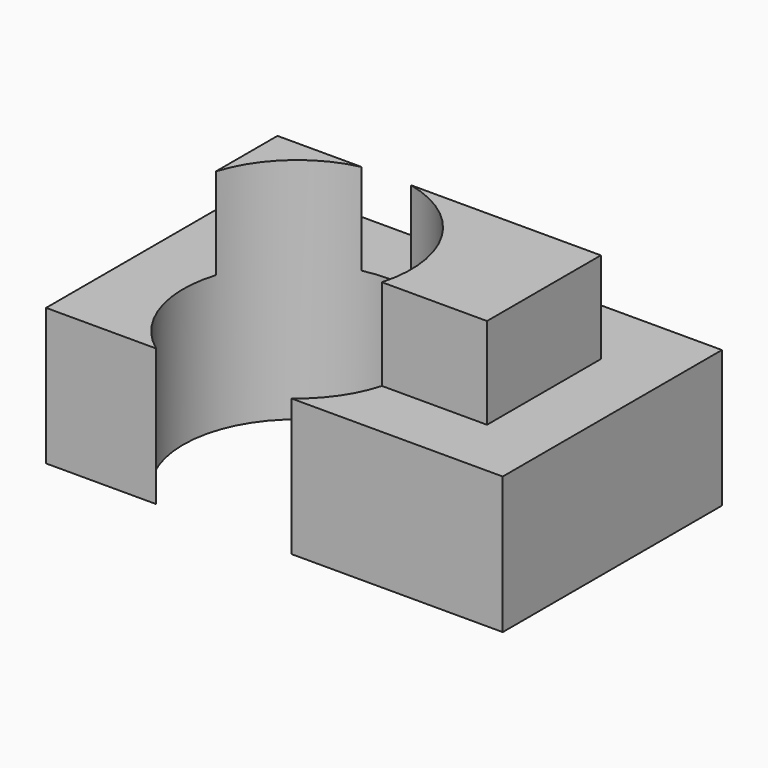
from build123d import *

# Parameters (mm, degrees)
F0_W     = 50
F0_H     = 30
F1_DEPTH = 15
F2_W     = 35.409173
F2_H     = 15.580036
F3_DEPTH = 10
F4_R     = 12.476899
F5_DEPTH = 25


with BuildPart() as f1:
    # F0 (on Top) → F1 (new body)
    with BuildSketch(Plane.XY):
        with Locations((-34.536691, 22.37889)):
            Rectangle(F0_W, F0_H)
    extrude(amount=F1_DEPTH)

    # F2 (on face) → F3 (join)
    with BuildSketch(Plane.XY.offset(15)):
        with Locations((-34.27608, 21.812051)):
            Rectangle(F2_W, F2_H)
        with Locations((-34.27608, 21.812051)):
            Rectangle(F2_W, F2_H)
    extrude(amount=F3_DEPTH)

    # F4 (on Top) → F5 (cut)
    with BuildSketch(Plane.XY):
        with Locations((-40.083185, 17.421314)):
            Circle(F4_R)
    extrude(amount=F5_DEPTH, mode=Mode.SUBTRACT)


solid = f1.part
